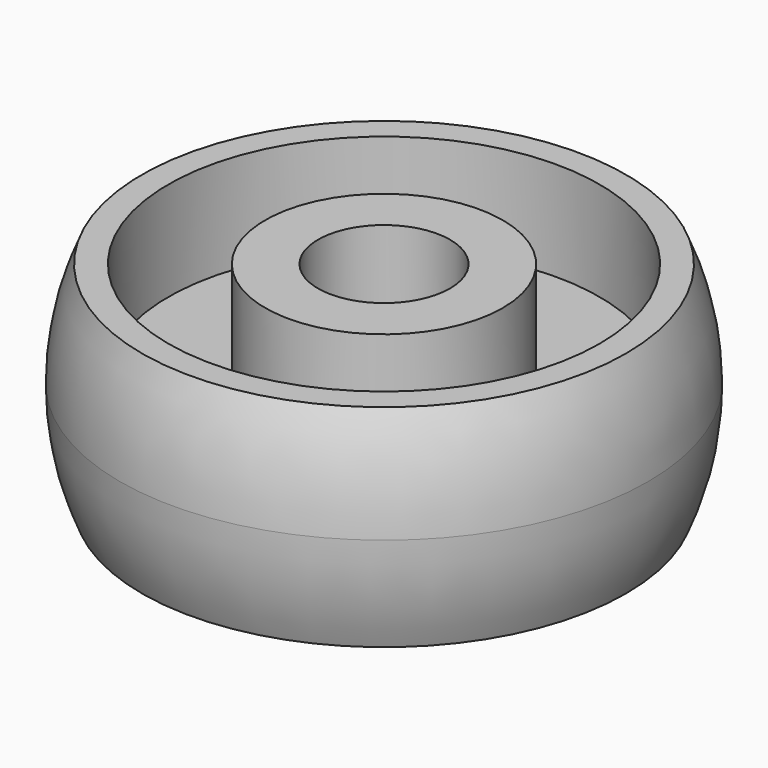
from build123d import *


with BuildPart() as f1:
    # F0 (on Front) → F1 (revolve)
    with BuildSketch(Plane.XZ):
        with BuildLine():
            ThreePointArc((18.330303, -8), (19.578126, -4.086193), (20, 0))
            ThreePointArc((20, 0), (19.578126, 4.086193), (18.330303, 8))
            Line((18.330303, 8), (16.330303, 8))
            Line((16.330303, 8), (16.330303, 0.5))
            Line((16.330303, 0.5), (9, 0.5))
            Line((9, 0.5), (9, 8))
            Line((9, 8), (5, 8))
            Line((5, 8), (5, -8))
            Line((5, -8), (9, -8))
            Line((9, -8), (9, -0.5))
            Line((9, -0.5), (16.330303, -0.5))
            Line((16.330303, -0.5), (16.330303, -8))
            Line((16.330303, -8), (18.330303, -8))
        make_face()
    revolve(axis=Axis((0, 0, 0), (0, 0, -1)))


solid = f1.part
